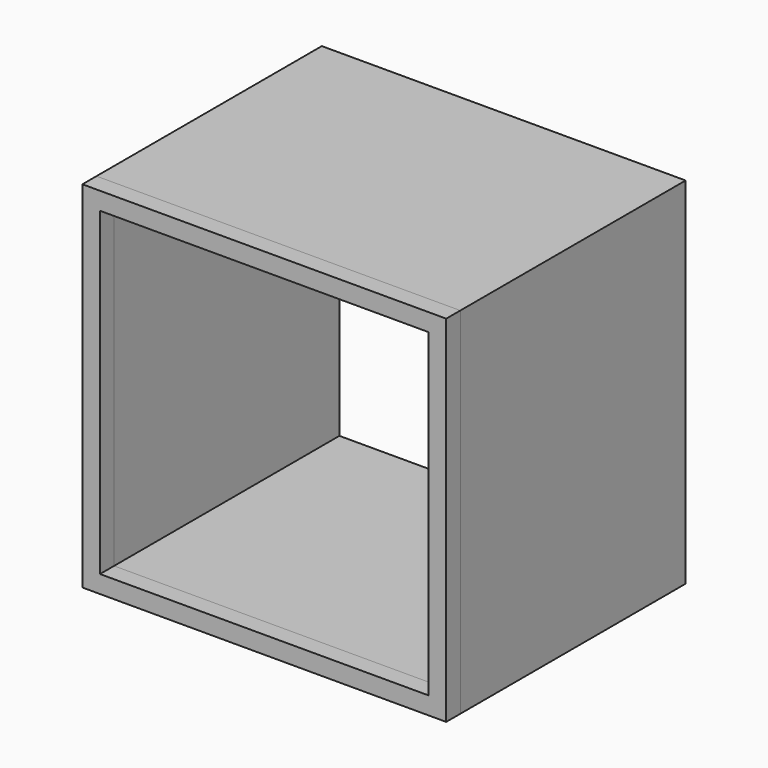
from build123d import *

# Parameters (mm, degrees)
F0_W     = 393.7
F0_H     = 384.175
F0_W_2   = 355.6
F0_H_2   = 346.075
F1_DEPTH = 304.8
F2_W     = 393.7
F2_H     = 384.175
F2_W_2   = 355.6
F2_H_2   = 346.075
F3_DEPTH = 19.05


with BuildPart() as f1:
    # F0 (on Front) → F1 (new body)
    with BuildSketch(Plane.XZ):
        Rectangle(F0_W, F0_H)
        Rectangle(F0_W_2, F0_H_2, mode=Mode.SUBTRACT)
    extrude(amount=-F1_DEPTH)


with BuildPart() as f3:
    # F2 (on face) → F3 (new body)
    with BuildSketch(Plane.XZ):
        Rectangle(F2_W, F2_H)
        Rectangle(F2_W_2, F2_H_2, mode=Mode.SUBTRACT)
    extrude(amount=F3_DEPTH)


solid = Compound([f1.part, f3.part])
